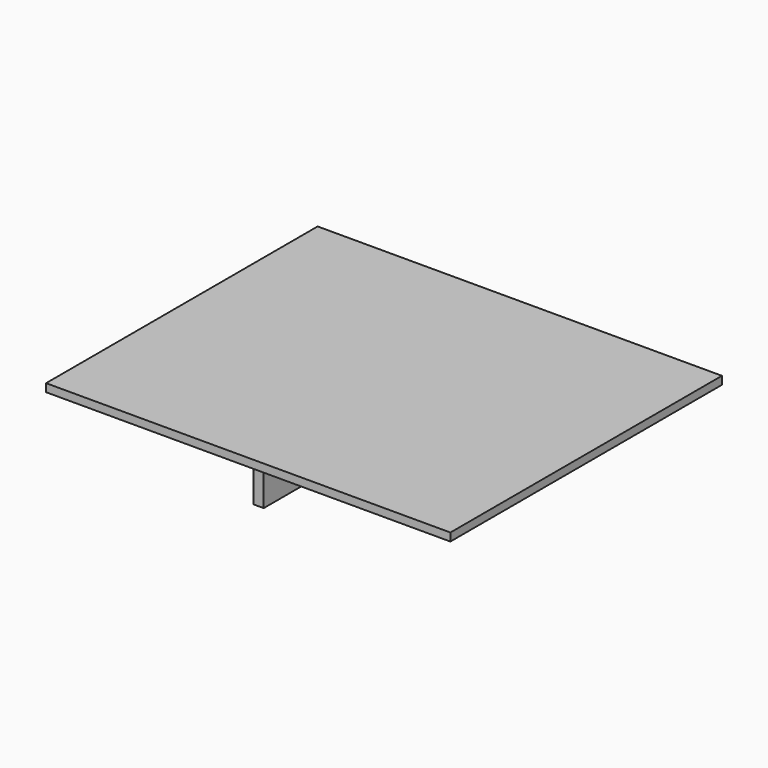
from build123d import *

# Parameters (mm, degrees)
SKETCH_W        = 42.5
SKETCH_H        = 36
PAD_DEPTH       = 6
SKETCH001_W     = 38.5
SKETCH001_H     = 32
POCKET_DEPTH    = 5
SKETCH002_W     = 40.5
SKETCH002_H     = 34
POCKET001_DEPTH = 1.2
SKETCH003_W     = 1
SKETCH003_H     = 27
PAD001_DEPTH    = 3.8
SKETCH004_W     = 40.5
SKETCH004_H     = 34
PAD002_DEPTH    = 2
SKETCH005_W     = 42.5
SKETCH005_H     = 6
POCKET002_DEPTH = 36.001
SKETCH006_W     = 1
SKETCH006_H     = 27
PAD003_DEPTH    = 3.8


with BuildPart() as part:
    # Sketch → Pad (new body)
    with BuildSketch(Plane.XY):
        with Locations((0.25, 18)):
            Rectangle(SKETCH_W, SKETCH_H)
    extrude(amount=PAD_DEPTH)

    # Sketch001 (on Face6 of Pad) → Pocket (cut)
    with BuildSketch(Plane.XY.offset(6)):
        with Locations((0.25, 18)):
            Rectangle(SKETCH001_W, SKETCH001_H)
    extrude(amount=-POCKET_DEPTH, mode=Mode.SUBTRACT)

    # Sketch002 (on Face5 of Pocket) → Pocket001 (cut)
    with BuildSketch(Plane.XY.offset(6)):
        with Locations((0.25, 18)):
            Rectangle(SKETCH002_W, SKETCH002_H)
    extrude(amount=-POCKET001_DEPTH, mode=Mode.SUBTRACT)

    # Sketch003 (on Face16 of Pocket001) → Pad001 (join)
    with BuildSketch(Plane.XY.offset(1)):
        with Locations((-0.5, 20.5)):
            Rectangle(SKETCH003_W, SKETCH003_H)
    extrude(amount=PAD001_DEPTH)

    # Sketch004 (on Face11 of Pad001) → Pad002 (join)
    with BuildSketch(Plane.XY.offset(4.8)):
        with Locations((0.25, 18)):
            Rectangle(SKETCH004_W, SKETCH004_H)
    extrude(amount=PAD002_DEPTH)

    # Sketch005 (on Face1 of Pad002) → Pocket002 (cut, through all)
    with BuildSketch(Plane.XZ):
        with Locations((0.25, 3)):
            Rectangle(SKETCH005_W, SKETCH005_H)
    extrude(amount=-POCKET002_DEPTH, mode=Mode.SUBTRACT)

    # Sketch006 (on Face2 of Pocket002) → Pad003 (join)
    with BuildSketch(Plane(origin=(0, 0, 6), x_dir=(1, 0, 0), z_dir=(0, 0, -1))):
        with Locations((0.5, -15.5)):
            Rectangle(SKETCH006_W, SKETCH006_H)
    extrude(amount=PAD003_DEPTH)


solid = part.part
